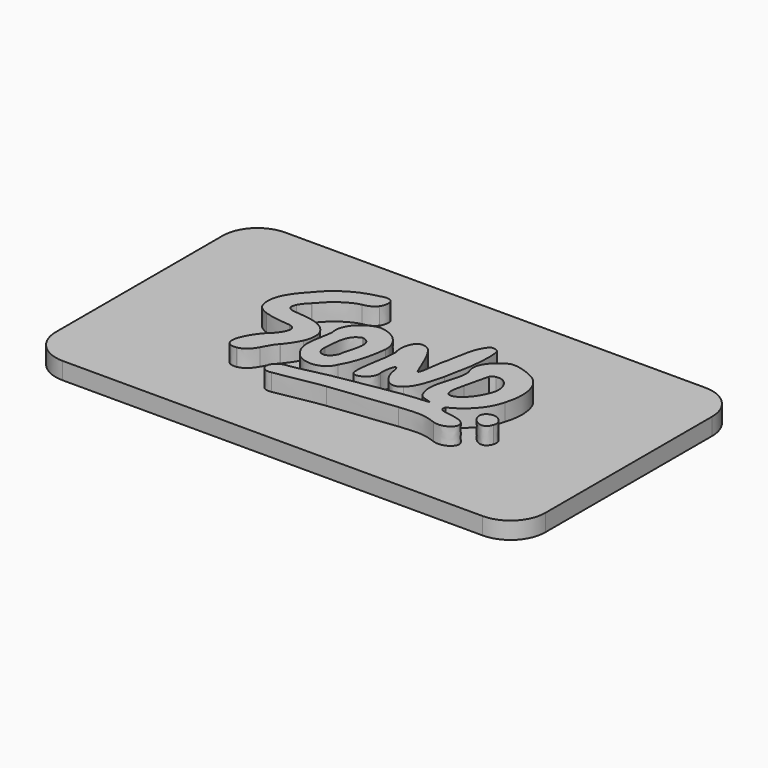
from build123d import *

# Parameters (mm, degrees)
PAD_DEPTH    = 3
PAD001_DEPTH = 3


with BuildPart() as part:
    # Sketch012 → Pad (new body)
    with BuildSketch(Plane.XY):
        with BuildLine():
            Line((2989.086426, -2800.652332), (2989.086426, -2837.262707))
            ThreePointArc((2989.086426, -2837.262707), (2990.873029, -2841.575948), (2995.18627, -2843.362551))
            Line((2995.18627, -2843.362551), (3068.891855, -2843.362551))
            ThreePointArc((3068.891855, -2843.362551), (3073.205096, -2841.575948), (3074.991699, -2837.262707))
            Line((3074.991699, -2837.262707), (3074.991699, -2800.652332))
            ThreePointArc((3074.991699, -2800.652332), (3073.205096, -2796.339091), (3068.891855, -2794.552488))
            Line((3068.891855, -2794.552488), (2995.18627, -2794.552488))
            ThreePointArc((2995.18627, -2794.552488), (2990.873029, -2796.339091), (2989.086426, -2800.652332))
        make_face()
    extrude(amount=PAD_DEPTH)

    # Sketch010 (on Face10 of Pad) → Pad001 (join)
    with BuildSketch(Plane.XY.offset(3)):
        with BuildLine():
            add(Edge.make_bspline(
                [(3020.651207, -2805.759792), (3017.572103, -2806.357828), (3014.747751, -2808.04305), (3012.780081, -2810.503487)],
                knots=[0, 0, 0, 0, 1, 1, 1, 1], degree=3))
            add(Edge.make_bspline(
                [(3012.780081, -2810.503487), (3011.925803, -2811.39037), (3011.013381, -2812.423603), (3010.387943, -2813.562947)],
                knots=[0, 0, 0, 0, 1, 1, 1, 1], degree=3))
            add(Edge.make_bspline(
                [(3010.387943, -2813.562947), (3009.731519, -2814.758841), (3009.38995, -2816.070166), (3009.712642, -2817.454891)],
                knots=[0, 0, 0, 0, 1, 1, 1, 1], degree=3))
            add(Edge.make_bspline(
                [(3009.712642, -2817.454891), (3009.882269, -2818.31892), (3010.643318, -2818.919825), (3011.697853, -2819.301877)],
                knots=[0, 0, 0, 0, 1, 1, 1, 1], degree=3))
            add(Edge.make_bspline(
                [(3011.697853, -2819.301877), (3013.088615, -2819.805633), (3014.992708, -2819.953148), (3016.33966, -2820.08005)],
                knots=[0, 0, 0, 0, 1, 1, 1, 1], degree=3))
            add(Edge.make_bspline(
                [(3016.33966, -2820.08005), (3016.846403, -2820.187595), (3017.14541, -2820.378665), (3017.267487, -2820.658998)],
                knots=[0, 0, 0, 0, 1, 1, 1, 1], degree=3))
            add(Edge.make_bspline(
                [(3017.267487, -2820.658998), (3017.394285, -2820.950085), (3017.332222, -2821.303906), (3017.194739, -2821.669736)],
                knots=[0, 0, 0, 0, 1, 1, 1, 1], degree=3))
            add(Edge.make_bspline(
                [(3017.194739, -2821.669736), (3016.86626, -2822.543624), (3016.071641, -2823.466445), (3015.486718, -2823.930948)],
                knots=[0, 0, 0, 0, 1, 1, 1, 1], degree=3))
            add(Edge.make_bspline(
                [(3015.486718, -2823.930948), (3015.479595, -2823.936683), (3015.47256, -2823.942598), (3015.465882, -2823.948872)],
                knots=[0, 0, 0, 0, 1, 1, 1, 1], degree=3))
            add(Edge.make_bspline(
                [(3015.465882, -2823.948872), (3014.6734, -2824.677933), (3013.343634, -2826.688208), (3013.099923, -2828.081446)],
                knots=[0, 0, 0, 0, 1, 1, 1, 1], degree=3))
            add(Edge.make_bspline(
                [(3013.099923, -2828.081446), (3012.99975, -2828.65421), (3013.083539, -2829.136815), (3013.356901, -2829.454699)],
                knots=[0, 0, 0, 0, 1, 1, 1, 1], degree=3))
            add(Edge.make_bspline(
                [(3013.356901, -2829.454699), (3013.628393, -2829.770431), (3014.110471, -2829.965356), (3014.901172, -2829.856108)],
                knots=[0, 0, 0, 0, 1, 1, 1, 1], degree=3))
            add(Edge.make_bspline(
                [(3014.901172, -2829.856108), (3014.911234, -2829.854674), (3014.921207, -2829.852882), (3014.93118, -2829.850731)],
                knots=[0, 0, 0, 0, 1, 1, 1, 1], degree=3))
            add(Edge.make_bspline(
                [(3014.93118, -2829.850731), (3016.143677, -2829.582139), (3016.811944, -2828.766862), (3017.361606, -2827.813571)],
                knots=[0, 0, 0, 0, 1, 1, 1, 1], degree=3))
            add(Edge.make_bspline(
                [(3017.361606, -2827.813571), (3017.840389, -2826.983148), (3018.219267, -2826.041418), (3018.911041, -2825.384948)],
                knots=[0, 0, 0, 0, 1, 1, 1, 1], degree=3))
            add(Edge.make_bspline(
                [(3018.911041, -2825.384948), (3018.924576, -2825.372043), (3018.93722, -2825.358062), (3018.948796, -2825.343365)],
                knots=[0, 0, 0, 0, 1, 1, 1, 1], degree=3))
            add(Edge.make_bspline(
                [(3018.948796, -2825.343365), (3019.594802, -2824.516258), (3020.31694, -2823.554273), (3020.764648, -2822.527224)],
                knots=[0, 0, 0, 0, 1, 1, 1, 1], degree=3))
            add(Edge.make_bspline(
                [(3020.764648, -2822.527224), (3021.241116, -2821.434035), (3021.409585, -2820.26888), (3020.915932, -2819.103188)],
                knots=[0, 0, 0, 0, 1, 1, 1, 1], degree=3))
            add(Edge.make_bspline(
                [(3020.915932, -2819.103188), (3020.909342, -2819.087684), (3020.901774, -2819.072628), (3020.893226, -2819.058109)],
                knots=[0, 0, 0, 0, 1, 1, 1, 1], degree=3))
            add(Edge.make_bspline(
                [(3020.893226, -2819.058109), (3020.193794, -2817.87521), (3019.089038, -2817.312394), (3017.856239, -2817.017274)],
                knots=[0, 0, 0, 0, 1, 1, 1, 1], degree=3))
            add(Edge.make_bspline(
                [(3017.856239, -2817.017274), (3016.710524, -2816.743036), (3015.453416, -2816.704678), (3014.356497, -2816.556895)],
                knots=[0, 0, 0, 0, 1, 1, 1, 1], degree=3))
            add(Edge.make_bspline(
                [(3014.356497, -2816.556895), (3014.356229, -2816.556895), (3014.356051, -2816.556895), (3014.355784, -2816.556805)],
                knots=[0, 0, 0, 0, 1, 1, 1, 1], degree=3))
            add(Edge.make_bspline(
                [(3014.355784, -2816.556805), (3013.715388, -2816.471755), (3013.357969, -2816.282029), (3013.232597, -2815.970777)],
                knots=[0, 0, 0, 0, 1, 1, 1, 1], degree=3))
            add(Edge.make_bspline(
                [(3013.232597, -2815.970777), (3013.104909, -2815.653611), (3013.217549, -2815.263673), (3013.40819, -2814.868895)],
                knots=[0, 0, 0, 0, 1, 1, 1, 1], degree=3))
            add(Edge.make_bspline(
                [(3013.40819, -2814.868895), (3013.710401, -2814.243166), (3014.241542, -2813.617615), (3014.70697, -2813.205362)],
                knots=[0, 0, 0, 0, 1, 1, 1, 1], degree=3))
            add(Edge.make_bspline(
                [(3014.70697, -2813.205362), (3014.72086, -2813.193084), (3014.733771, -2813.17991), (3014.745614, -2813.16575)],
                knots=[0, 0, 0, 0, 1, 1, 1, 1], degree=3))
            add(Edge.make_bspline(
                [(3014.745614, -2813.16575), (3016.236905, -2811.394403), (3018.083031, -2809.767166), (3020.367071, -2809.185888)],
                knots=[0, 0, 0, 0, 1, 1, 1, 1], degree=3))
            add(Edge.make_bspline(
                [(3020.367071, -2809.185888), (3021.532643, -2809.035774), (3022.170279, -2808.561235), (3022.526807, -2808.06653)],
                knots=[0, 0, 0, 0, 1, 1, 1, 1], degree=3))
            add(Edge.make_bspline(
                [(3022.526807, -2808.06653), (3023.03818, -2807.356916), (3022.977275, -2806.570945), (3022.960802, -2806.426029)],
                knots=[0, 0, 0, 0, 1, 1, 1, 1], degree=3))
            add(Edge.make_bspline(
                [(3022.960802, -2806.426029), (3022.955103, -2806.326103), (3022.910137, -2805.977479), (3022.577027, -2805.735236)],
                knots=[0, 0, 0, 0, 1, 1, 1, 1], degree=3))
            add(Edge.make_bspline(
                [(3022.577027, -2805.735236), (3022.300549, -2805.534128), (3021.747681, -2805.366269), (3020.651207, -2805.759792)],
                knots=[0, 0, 0, 0, 1, 1, 1, 1], degree=3))
        make_face()
        with BuildLine():
            add(Edge.make_bspline(
                [(3042.006542, -2808.136882), (3040.200307, -2810.241885), (3040.389523, -2813.19622), (3039.667741, -2815.731491)],
                knots=[0, 0, 0, 0, 1, 1, 1, 1], degree=3))
            add(Edge.make_bspline(
                [(3039.667741, -2815.731491), (3039.385297, -2816.849684), (3039.173108, -2821.040422), (3038.592281, -2819.692621)],
                knots=[0, 0, 0, 0, 1, 1, 1, 1], degree=3))
            add(Edge.make_bspline(
                [(3038.592281, -2819.692621), (3037.685112, -2817.596401), (3036.511615, -2814.279372), (3035.366256, -2813.662874)],
                knots=[0, 0, 0, 0, 1, 1, 1, 1], degree=3))
            add(Edge.make_bspline(
                [(3035.366256, -2813.662874), (3032.975988, -2812.20726), (3032.206212, -2815.759901), (3032.848301, -2817.425226)],
                knots=[0, 0, 0, 0, 1, 1, 1, 1], degree=3))
            add(Edge.make_bspline(
                [(3032.848301, -2817.425226), (3032.811793, -2820.022066), (3031.93009, -2822.552855), (3031.979064, -2825.138851)],
                knots=[0, 0, 0, 0, 1, 1, 1, 1], degree=3))
            add(Edge.make_bspline(
                [(3031.979064, -2825.138851), (3031.929022, -2827.16445), (3035.436778, -2825.541426), (3035.029852, -2823.436064)],
                knots=[0, 0, 0, 0, 1, 1, 1, 1], degree=3))
            add(Edge.make_bspline(
                [(3035.029852, -2823.436064), (3034.841348, -2822.557336), (3035.501869, -2819.241383), (3036.014934, -2821.659071)],
                knots=[0, 0, 0, 0, 1, 1, 1, 1], degree=3))
            add(Edge.make_bspline(
                [(3036.014934, -2821.659071), (3036.147786, -2823.561712), (3037.951617, -2826.410295), (3040.010734, -2824.694603)],
                knots=[0, 0, 0, 0, 1, 1, 1, 1], degree=3))
            add(Edge.make_bspline(
                [(3040.010734, -2824.694603), (3041.630514, -2823.207801), (3041.991939, -2820.864408), (3042.552909, -2818.836747)],
                knots=[0, 0, 0, 0, 1, 1, 1, 1], degree=3))
            add(Edge.make_bspline(
                [(3042.552909, -2818.836747), (3043.245129, -2815.493818), (3044.027015, -2812.047646), (3043.581444, -2808.623879)],
                knots=[0, 0, 0, 0, 1, 1, 1, 1], degree=3))
            add(Edge.make_bspline(
                [(3043.581444, -2808.623879), (3043.311555, -2808.048696), (3042.546676, -2807.948231), (3042.006542, -2808.136882)],
                knots=[0, 0, 0, 0, 1, 1, 1, 1], degree=3))
        make_face()
        with BuildLine():
            add(Edge.make_bspline(
                [(3047.119564, -2810.3091), (3045.232211, -2811.253968), (3043.069091, -2813.440257), (3044.303849, -2815.68919)],
                knots=[0, 0, 0, 0, 1, 1, 1, 1], degree=3))
            add(Edge.make_bspline(
                [(3044.303849, -2815.68919), (3044.582197, -2818.690755), (3042.052399, -2821.5414), (3043.363734, -2824.510433)],
                knots=[0, 0, 0, 0, 1, 1, 1, 1], degree=3))
            add(Edge.make_bspline(
                [(3043.363734, -2824.510433), (3043.641637, -2826.239479), (3048.564018, -2825.79066), (3043.281993, -2826.221644)],
                knots=[0, 0, 0, 0, 1, 1, 1, 1], degree=3))
            add(Edge.make_bspline(
                [(3043.281993, -2826.221644), (3041.030187, -2826.394253), (3034.488649, -2827.585576), (3030.105067, -2828.336864)],
                knots=[0, 0, 0, 0, 1, 1, 1, 1], degree=3))
            add(Edge.make_bspline(
                [(3030.105067, -2828.336864), (3027.844891, -2828.7674), (3025.65773, -2829.47567), (3023.382594, -2829.744889)],
                knots=[0, 0, 0, 0, 1, 1, 1, 1], degree=3))
            add(Edge.make_bspline(
                [(3023.382594, -2829.744889), (3020.917976, -2830.10122), (3020.759657, -2833.121695), (3023.22294, -2832.659254)],
                knots=[0, 0, 0, 0, 1, 1, 1, 1], degree=3))
            add(Edge.make_bspline(
                [(3023.22294, -2832.659254), (3026.064033, -2832.279801), (3028.852144, -2831.538283), (3031.705702, -2831.197367)],
                knots=[0, 0, 0, 0, 1, 1, 1, 1], degree=3))
            add(Edge.make_bspline(
                [(3031.705702, -2831.197367), (3035.547102, -2830.701587), (3039.40827, -2830.333695), (3043.244061, -2829.8156)],
                knots=[0, 0, 0, 0, 1, 1, 1, 1], degree=3))
            add(Edge.make_bspline(
                [(3043.244061, -2829.8156), (3045.449653, -2829.752238), (3046.913964, -2829.149004), (3049.825578, -2830.299371)],
                knots=[0, 0, 0, 0, 1, 1, 1, 1], degree=3))
            add(Edge.make_bspline(
                [(3049.825578, -2830.299371), (3052.235346, -2831.075842), (3054.694801, -2828.394579), (3051.71498, -2827.456344)],
                knots=[0, 0, 0, 0, 1, 1, 1, 1], degree=3))
            add(Edge.make_bspline(
                [(3051.71498, -2827.456344), (3049.8319, -2826.863684), (3047.785249, -2827.235519), (3048.386645, -2825.872573)],
                knots=[0, 0, 0, 0, 1, 1, 1, 1], degree=3))
            add(Edge.make_bspline(
                [(3048.386645, -2825.872573), (3050.943868, -2824.624609), (3053.137618, -2822.423623), (3053.798138, -2819.571544)],
                knots=[0, 0, 0, 0, 1, 1, 1, 1], degree=3))
            add(Edge.make_bspline(
                [(3053.798138, -2819.571544), (3054.707979, -2816.824501), (3054.55812, -2813.073351), (3051.833229, -2811.421648)],
                knots=[0, 0, 0, 0, 1, 1, 1, 1], degree=3))
            add(Edge.make_bspline(
                [(3051.833229, -2811.421648), (3050.40685, -2810.593376), (3047.99815, -2809.891828), (3047.119564, -2810.3091)],
                knots=[0, 0, 0, 0, 1, 1, 1, 1], degree=3))
        make_face()
        with BuildLine():
            add(Edge.make_bspline(
                [(3048.118091, -2814.492221), (3050.163318, -2814.080505), (3051.172352, -2816.550711), (3050.67113, -2818.227597)],
                knots=[0, 0, 0, 0, 1, 1, 1, 1], degree=3))
            add(Edge.make_bspline(
                [(3050.67113, -2818.227597), (3050.106598, -2819.990609), (3048.989109, -2821.779163), (3047.284739, -2822.607076)],
                knots=[0, 0, 0, 0, 1, 1, 1, 1], degree=3))
            add(Edge.make_bspline(
                [(3047.284739, -2822.607076), (3045.141832, -2823.207801), (3046.094502, -2820.447046), (3046.300013, -2819.281981)],
                knots=[0, 0, 0, 0, 1, 1, 1, 1], degree=3))
            add(Edge.make_bspline(
                [(3046.300013, -2819.281981), (3046.707741, -2817.896092), (3046.888231, -2816.4187), (3047.305575, -2815.062833)],
                knots=[0, 0, 0, 0, 1, 1, 1, 1], degree=3))
            add(Edge.make_bspline(
                [(3047.305575, -2815.062833), (3047.498353, -2814.785906), (3047.783557, -2814.561856), (3048.118091, -2814.492221)],
                knots=[0, 0, 0, 0, 1, 1, 1, 1], degree=3))
        make_face(mode=Mode.SUBTRACT)
        with BuildLine():
            add(Edge.make_bspline(
                [(3026.22155, -2813.021192), (3023.939113, -2813.629983), (3021.746164, -2815.725218), (3022.338833, -2818.286388)],
                knots=[0, 0, 0, 0, 1, 1, 1, 1], degree=3))
            add(Edge.make_bspline(
                [(3022.338833, -2818.286388), (3022.088712, -2820.652904), (3020.912722, -2823.385339), (3022.553427, -2825.50961)],
                knots=[0, 0, 0, 0, 1, 1, 1, 1], degree=3))
            add(Edge.make_bspline(
                [(3022.553427, -2825.50961), (3023.883194, -2827.861428), (3027.927612, -2827.829882), (3028.918926, -2825.181869)],
                knots=[0, 0, 0, 0, 1, 1, 1, 1], degree=3))
            add(Edge.make_bspline(
                [(3028.918926, -2825.181869), (3030.309866, -2822.897983), (3030.863623, -2820.202024), (3031.188185, -2817.578567)],
                knots=[0, 0, 0, 0, 1, 1, 1, 1], degree=3))
            add(Edge.make_bspline(
                [(3031.188185, -2817.578567), (3031.320681, -2814.965147), (3029.036819, -2813.0902), (3026.602475, -2812.985523)],
                knots=[0, 0, 0, 0, 1, 1, 1, 1], degree=3))
            add(Edge.make_bspline(
                [(3026.602475, -2812.985523), (3026.22155, -2813.021192)],
                knots=[0, 0, 4.296474, 4.296474], degree=1))
        make_face()
        with BuildLine():
            add(Edge.make_bspline(
                [(3026.668189, -2816.82477), (3029.245536, -2817.298145), (3027.272345, -2820.771561), (3027.129787, -2822.611288)],
                knots=[0, 0, 0, 0, 1, 1, 1, 1], degree=3))
            add(Edge.make_bspline(
                [(3027.129787, -2822.611288), (3026.338107, -2824.558021), (3024.245242, -2824.627387), (3024.349244, -2822.290626)],
                knots=[0, 0, 0, 0, 1, 1, 1, 1], degree=3))
            add(Edge.make_bspline(
                [(3024.349244, -2822.290626), (3024.516912, -2820.426433), (3024.379519, -2817.573279), (3026.550652, -2816.832836)],
                knots=[0, 0, 0, 0, 1, 1, 1, 1], degree=3))
            add(Edge.make_bspline(
                [(3026.550652, -2816.832836), (3026.668189, -2816.82477)],
                knots=[0, 0, 1.323065, 1.323065], degree=1))
        make_face(mode=Mode.SUBTRACT)
        with BuildLine():
            add(Edge.make_bspline(
                [(3054.469077, -2823.662535), (3051.638492, -2824.778308), (3055.781391, -2828.841606), (3056.725335, -2825.815933)],
                knots=[0, 0, 0, 0, 1, 1, 1, 1], degree=3))
            add(Edge.make_bspline(
                [(3056.725335, -2825.815933), (3057.225578, -2824.525848), (3055.670444, -2823.257182), (3054.469077, -2823.662535)],
                knots=[0, 0, 0, 0, 1, 1, 1, 1], degree=3))
        make_face()
    extrude(amount=PAD001_DEPTH)


solid = part.part
